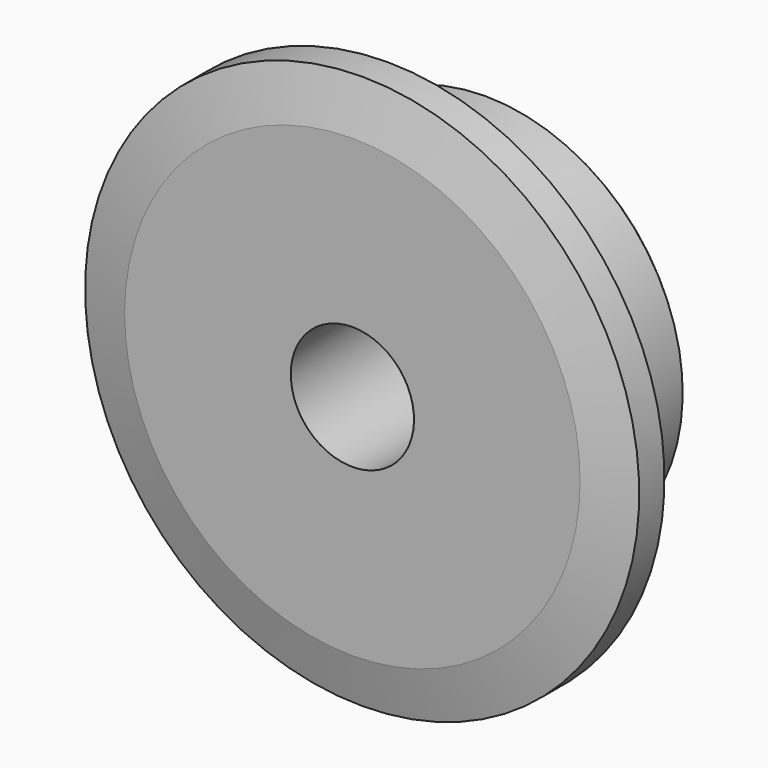
from build123d import *

# Parameters (mm, degrees)
F0_W     = 15.0114
F0_H     = 17.4625
F0_W_2   = 7.2136
F0_H_2   = 10.287
F2_R     = 1.5875
F3_SIZE  = 0.79375
F4_SIZE2 = 6.35
F4_SIZE  = 1.5748


with BuildPart() as f1:
    # F0 (on Right) → F1 (revolve)
    with BuildSketch(Plane.YZ):
        with Locations((14.7193, 16.66875)):
            Rectangle(F0_W, F0_H)
        with Locations((3.6068, 16.66875)):
            Rectangle(F0_W_2, F0_H)
        with Locations((3.6068, 30.5435)):
            Rectangle(F0_W_2, F0_H_2)
    revolve(axis=Axis((0, 11.1125, 0), (0, 1, 0)))

    # F2
    f2_edges = [f1.edges().sort_by_distance(p)[0] for p in [
        (0, 7.2136, -25.4),
    ]]
    fillet(f2_edges, radius=F2_R)

    # F3
    f3_edges = [f1.edges().sort_by_distance(p)[0] for p in [
        (0, 22.225, -25.4),
    ]]
    chamfer(f3_edges, length=F3_SIZE)

    # F4
    f4_edges = [f1.edges().sort_by_distance(p)[0] for p in [
        (0, 7.2136, -35.687),
        (0, 0, -35.687),
        (0, 3.6068, 35.687),
    ]]
    f4_side = f1.faces().sort_by_distance((0, 3.6068, -35.687))[0]
    chamfer(f4_edges, length=F4_SIZE, length2=F4_SIZE2, reference=f4_side)


solid = f1.part
